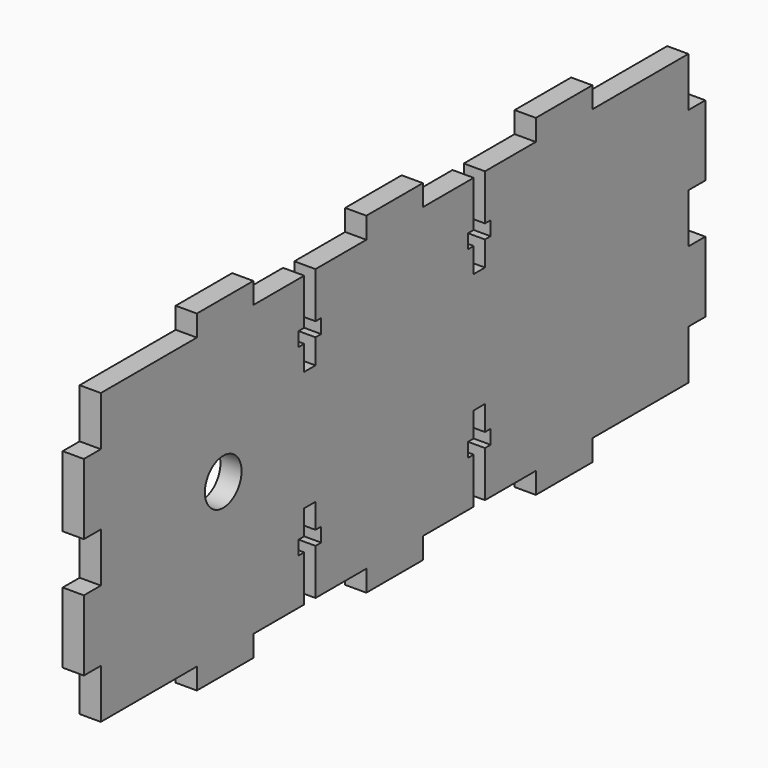
from build123d import *

# Parameters (mm, degrees)
F0_R     = 3.25
F1_DEPTH = 3


with BuildPart() as f1:
    # F0 (on Right) → F1 (new body)
    with BuildSketch(Plane.YZ):
        Polygon((-38.366488, 0.131546), (-38.366488, -6.868454), (-21.366488, -6.868454), (-21.366488, -9.868454), (-11.366488, -9.868454), (-11.366488, -6.868454), (-2.366488, -6.868454), (-2.366488, -0.368454), (-3.366488, -0.368454), (-3.366488, 1.631546), (-2.366488, 1.631546), (-2.366488, 5.131546), (-0.366488, 5.131546), (-0.366488, 1.631546), (0.633512, 1.631546), (0.633512, -0.368454), (-0.366488, -0.368454), (-0.366488, -6.868454), (8.633512, -6.868454), (8.633512, -9.868454), (13.633512, -9.868454), (18.633512, -9.868454), (18.633512, -6.868454), (27.633512, -6.868454), (27.633512, -0.368454), (26.633512, -0.368454), (26.633512, 1.631546), (27.633512, 1.631546), (27.633512, 5.131546), (29.633512, 5.131546), (29.633512, 1.631546), (30.633512, 1.631546), (30.633512, -0.368454), (29.633512, -0.368454), (29.633512, -6.868454), (38.633512, -6.868454), (38.633512, -9.868454), (48.633512, -9.868454), (48.633512, -6.868454), (65.633512, -6.868454), (65.633512, 0.131546), (68.633512, 0.131546), (68.633512, 10.131546), (65.633512, 10.131546), (65.633512, 17.131546), (68.633512, 17.131546), (68.633512, 27.131546), (65.633512, 27.131546), (65.633512, 34.131546), (48.633512, 34.131546), (48.633512, 37.131546), (38.633512, 37.131546), (38.633512, 34.131546), (29.633512, 34.131546), (29.633512, 27.631546), (30.633512, 27.631546), (30.633512, 25.631546), (29.633512, 25.631546), (29.633512, 22.131546), (27.633512, 22.131546), (27.633512, 25.631546), (26.633512, 25.631546), (26.633512, 27.631546), (27.633512, 27.631546), (27.633512, 34.131546), (18.633512, 34.131546), (18.633512, 37.131546), (13.633512, 37.131546), (8.633512, 37.131546), (8.633512, 34.131546), (-0.366488, 34.131546), (-0.366488, 27.631546), (0.633512, 27.631546), (0.633512, 25.631546), (-0.366488, 25.631546), (-0.366488, 22.131546), (-2.366488, 22.131546), (-2.366488, 25.631546), (-3.366488, 25.631546), (-3.366488, 27.631546), (-2.366488, 27.631546), (-2.366488, 34.131546), (-11.366488, 34.131546), (-11.366488, 37.131546), (-21.366488, 37.131546), (-21.366488, 34.131546), (-38.366488, 34.131546), (-38.366488, 27.131546), (-41.366488, 27.131546), (-41.366488, 17.131546), (-38.366488, 17.131546), (-38.366488, 10.131546), (-41.366488, 10.131546), (-41.366488, 0.131546), align=None)
        with Locations((-16.699813, 14.257791)):
            Circle(F0_R, mode=Mode.SUBTRACT)
    extrude(amount=F1_DEPTH)


solid = f1.part
